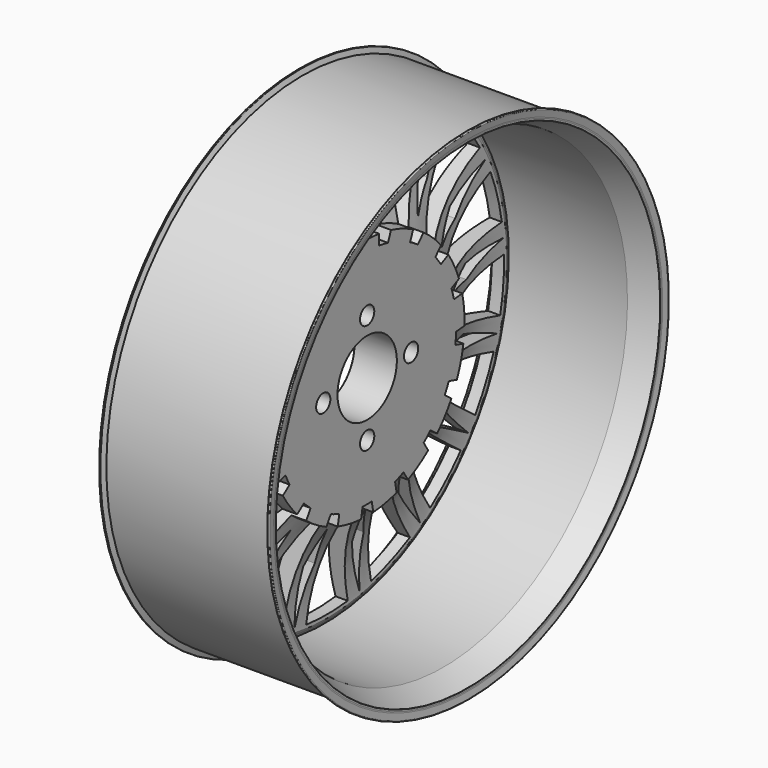
from build123d import *

# Parameters (mm, degrees)
F3_DEPTH = 200
F4_DEPTH = 200
F5_DEPTH = 25
F6_DEPTH = 25
F7_R     = 6
F8_DEPTH = 200


with BuildPart() as f1:
    # F0 (on Front) → F1 (revolve)
    with BuildSketch(Plane.XZ):
        with BuildLine():
            Line((55, 165.1), (0, 165.1))
            Line((0, 165.1), (-55, 165.1))
            Line((-55, 165.1), (-56.1683014739, 168.549018692))
            ThreePointArc((-56.1683014739, 168.549018692), (-56.2535917289, 168.6556027056), (-56.3873958231, 168.6826405296))
            Line((-56.3873958231, 168.6826405296), (-56.9232540892, 168.6022651977))
            ThreePointArc((-56.9232540892, 168.6022651977), (-57.2511731604, 168.4049945914), (-57.343555576, 168.033629409))
            Line((-57.343555576, 168.033629409), (-56.7203909869, 163.879022662))
            ThreePointArc((-56.7203909869, 163.879022662), (-56.6789249456, 163.5092167955), (-56.6650773645, 163.1373511531))
            Line((-56.6650773645, 163.1373511531), (-56.6650773645, 162.1373511531))
            ThreePointArc((-56.6650773645, 162.1373511531), (-56.5974023504, 161.8861637598), (-56.4126969383, 161.702972808))
            Line((-56.4126969383, 161.702972808), (-52.0689134875, 159.22677707))
            ThreePointArc((-52.0689134875, 159.22677707), (-50.2218593663, 157.3948675522), (-49.5451092255, 154.8829936193))
            Line((-49.5451092255, 154.8829936193), (-49.5451092255, 153.8829936193))
            ThreePointArc((-49.5451092255, 153.8829936193), (-49.4470743659, 153.2645046502), (-49.1625806206, 152.7066491604))
            Line((-49.1625806206, 152.7066491604), (-46.6588767889, 149.2640611505))
            ThreePointArc((-46.6588767889, 149.2640611505), (-45.4801445178, 111.0888432605), (-32.9768624351, 75))
            Line((-32.9768624351, 75), (-29.9768624351, 75))
            Line((-29.9768624351, 75), (-29.9768624351, 53.692658539))
            ThreePointArc((-29.9768624351, 53.692658539), (-29.1386520813, 51.4466550453), (-31.0577105917, 50.0098729726))
            Line((-31.0577105917, 50.0098729726), (-39.8, 50.0098729726))
            ThreePointArc((-39.8, 50.0098729726), (-39.9414213562, 49.9512943289), (-40, 49.8098729726))
            Line((-40, 49.8098729726), (-40, 25.2))
            ThreePointArc((-40, 25.2), (-39.9414213562, 25.0585786438), (-39.8, 25))
            Line((-39.8, 25), (-35, 25))
            Line((-35, 25), (-11.3425483368, 25))
            Line((-11.3425483368, 25), (-11.3425483368, 82.0147073211))
            Line((-11.3425483368, 82.0147073211), (-21.3425483368, 82.0147073211))
            ThreePointArc((-21.3425483368, 82.0147073211), (-34.9638665985, 115.4755585241), (-38.3855651878, 151.4402753057))
            Line((-38.3855651878, 151.4402753057), (-39.1945777403, 153.2693457498))
            Line((-39.1945777403, 153.2693457498), (-40, 155.1))
            Line((-40, 155.1), (0, 155.1))
            Line((0, 155.1), (40, 155.1))
            Line((40, 155.1), (56.5974023504, 161.8861637598))
            ThreePointArc((56.5974023504, 161.8861637598), (56.6478622508, 162.0072790442), (56.6650773645, 162.1373511531))
            Line((56.6650773645, 162.1373511531), (56.6650773645, 163.1373511531))
            ThreePointArc((56.6650773645, 163.1373511531), (56.6789249456, 163.5092167955), (56.7203909869, 163.879022662))
            Line((56.7203909869, 163.879022662), (57.343555576, 168.033629409))
            ThreePointArc((57.343555576, 168.033629409), (57.2511731604, 168.4049945914), (56.9232540892, 168.6022651977))
            Line((56.9232540892, 168.6022651977), (56.3873958231, 168.6826405296))
            ThreePointArc((56.3873958231, 168.6826405296), (56.2535917289, 168.6556027056), (56.1683014739, 168.549018692))
            Line((56.1683014739, 168.549018692), (55, 165.1))
        make_face()
    revolve(axis=Axis((-17.5, 0, 0), (-1, 0, 0)))

    # F2 (on face) → F3 (cut)
    with BuildSketch(Plane(origin=(-40, 0, 0), x_dir=(0, -1, 0), z_dir=(-1, 0, 0))):
        with BuildLine():
            ThreePointArc((-62.080411589, 42.083518115), (-59.851292046, 45.1975977284), (-57.4661179383, 48.193830405))
            Line((-57.4661179383, 48.193830405), (-107.7227107047, 103.3226865193))
            ThreePointArc((-107.7227107047, 103.3226865193), (-119.1152922119, 89.9516932159), (-128.8581285259, 75.3348701727))
            Line((-128.8581285259, 75.3348701727), (-62.080411589, 42.083518115))
        make_face()
        with BuildLine():
            ThreePointArc((-42.6859395939, 61.6677432779), (-39.4824122158, 63.7662851797), (-36.1759395137, 65.6985646746))
            Line((-36.1759395137, 65.6985646746), (-63.1239767751, 135.2594673479))
            ThreePointArc((-63.1239767751, 135.2594673479), (-78.5774025513, 126.9068625387), (-92.9425323603, 116.7965993923))
            Line((-92.9425323603, 116.7965993923), (-42.6859395939, 61.6677432779))
        make_face()
        with BuildLine():
            ThreePointArc((-17.5264949256, 72.9233979983), (-13.7812138362, 73.7229824763), (-10, 74.3303437366))
            Line((-10, 74.3303437366), (-10, 148.9287076125))
            ThreePointArc((-10, 148.9287076125), (-27.4271992637, 146.7225568605), (-44.474532187, 142.4843006716))
            Line((-44.474532187, 142.4843006716), (-17.5264949256, 72.9233979983))
        make_face()
        with BuildLine():
            Line((10, 148.9287076125), (10, 74.3303437366))
            ThreePointArc((10, 74.3303437366), (13.7812138362, 73.7229824763), (17.5264949256, 72.9233979983))
            Line((17.5264949256, 72.9233979983), (44.474532187, 142.4843006716))
            ThreePointArc((44.474532187, 142.4843006716), (27.4271992637, 146.7225568605), (10, 148.9287076125))
        make_face()
        with BuildLine():
            Line((63.1239767751, 135.2594673479), (36.1759395137, 65.6985646746))
            ThreePointArc((36.1759395137, 65.6985646746), (39.4824122158, 63.7662851797), (42.6859395939, 61.6677432779))
            Line((42.6859395939, 61.6677432779), (92.9425323603, 116.7965993923))
            ThreePointArc((92.9425323603, 116.7965993923), (78.5774025513, 126.9068625387), (63.1239767751, 135.2594673479))
        make_face()
        with BuildLine():
            Line((107.7227107047, 103.3226865193), (57.4661179383, 48.193830405))
            ThreePointArc((57.4661179383, 48.193830405), (59.851292046, 45.1975977284), (62.080411589, 42.083518115))
            Line((62.080411589, 42.083518115), (128.8581285259, 75.3348701727))
            ThreePointArc((128.8581285259, 75.3348701727), (119.1152922119, 89.9516932159), (107.7227107047, 103.3226865193))
        make_face()
        with BuildLine():
            ThreePointArc((-73.0905799996, 16.8156806379), (-72.136923238, 20.5247242554), (-70.9951787046, 24.1802522879))
            Line((-70.9951787046, 24.1802522879), (-137.7728956415, 57.4316043456))
            ThreePointArc((-137.7728956415, 57.4316043456), (-143.5660016187, 40.8480492847), (-147.3707204066, 23.6987492913))
            Line((-147.3707204066, 23.6987492913), (-73.0905799996, 16.8156806379))
        make_face()
        with BuildLine():
            ThreePointArc((-74.2294605724, -10.7232076883), (-74.6800632221, -6.9201269597), (-74.9359471889, -3.099002888))
            Line((-74.9359471889, -3.099002888), (-149.2160875959, 3.7840657654))
            ThreePointArc((-149.2160875959, 3.7840657654), (-148.6273269801, -13.7723500492), (-145.980079887, -31.1380190011))
            Line((-145.980079887, -31.1380190011), (-74.2294605724, -10.7232076883))
        make_face()
        with BuildLine():
            ThreePointArc((-65.3432411753, -36.8138673968), (-67.1372468516, -33.4303766832), (-68.756200771, -29.9597205518))
            Line((-68.756200771, -29.9597205518), (-140.5068200856, -50.3745318645))
            ThreePointArc((-140.5068200856, -50.3745318645), (-133.6157082605, -66.5327171937), (-124.8740206752, -81.7694252857))
            Line((-124.8740206752, -81.7694252857), (-65.3432411753, -36.8138673968))
        make_face()
        with BuildLine():
            ThreePointArc((-47.632054978, -57.9326103207), (-50.5271732735, -55.4256687915), (-53.2905484477, -52.7742119424))
            Line((-53.2905484477, -52.7742119424), (-112.8213279476, -97.7297698313))
            ThreePointArc((-112.8213279476, -97.7297698313), (-100.5585477501, -110.3074722108), (-86.9030330203, -121.3574175855))
            Line((-86.9030330203, -121.3574175855), (-47.632054978, -57.9326103207))
        make_face()
        with BuildLine():
            ThreePointArc((-23.4878958176, -71.2272332052), (-27.093124964, -69.9354172053), (-30.6277122634, -68.4612535783))
            Line((-30.6277122634, -68.4612535783), (-69.8986903057, -131.886060843))
            ThreePointArc((-69.8986903057, -131.886060843), (-53.9203981519, -139.1845918709), (-37.1953092097, -144.5554181756))
            Line((-37.1953092097, -144.5554181756), (-23.4878958176, -71.2272332052))
        make_face()
        with BuildLine():
            Line((17.535847216, -148.230408532), (3.8284338239, -74.9022235615))
            ThreePointArc((3.8284338239, -74.9022235615), (0, -75), (-3.8284338239, -74.9022235615))
            Line((-3.8284338239, -74.9022235615), (-17.535847216, -148.230408532))
            ThreePointArc((-17.535847216, -148.230408532), (0, -149.2640611505), (17.535847216, -148.230408532))
        make_face()
        with BuildLine():
            Line((69.8986903057, -131.886060843), (30.6277122634, -68.4612535783))
            ThreePointArc((30.6277122634, -68.4612535783), (27.093124964, -69.9354172053), (23.4878958176, -71.2272332052))
            Line((23.4878958176, -71.2272332052), (37.1953092097, -144.5554181756))
            ThreePointArc((37.1953092097, -144.5554181756), (53.9203981519, -139.1845918709), (69.8986903057, -131.886060843))
        make_face()
        with BuildLine():
            Line((112.8213279476, -97.7297698313), (53.2905484477, -52.7742119424))
            ThreePointArc((53.2905484477, -52.7742119424), (50.5271732735, -55.4256687915), (47.632054978, -57.9326103207))
            Line((47.632054978, -57.9326103207), (86.9030330203, -121.3574175855))
            ThreePointArc((86.9030330203, -121.3574175855), (100.5585477501, -110.3074722108), (112.8213279476, -97.7297698313))
        make_face()
        with BuildLine():
            Line((140.5068200856, -50.3745318645), (68.756200771, -29.9597205518))
            ThreePointArc((68.756200771, -29.9597205518), (67.1372468516, -33.4303766832), (65.3432411753, -36.8138673968))
            Line((65.3432411753, -36.8138673968), (124.8740206752, -81.7694252857))
            ThreePointArc((124.8740206752, -81.7694252857), (133.6157082605, -66.5327171937), (140.5068200856, -50.3745318645))
        make_face()
        with BuildLine():
            Line((149.2160875959, 3.7840657654), (74.9359471889, -3.099002888))
            ThreePointArc((74.9359471889, -3.099002888), (74.6800632221, -6.9201269597), (74.2294605724, -10.7232076883))
            Line((74.2294605724, -10.7232076883), (145.980079887, -31.1380190011))
            ThreePointArc((145.980079887, -31.1380190011), (148.4407954744, -15.6553565933), (149.2640611505, 0))
            ThreePointArc((149.2640611505, 0), (149.25206728, 1.8921849262), (149.2160875959, 3.7840657654))
        make_face()
        with BuildLine():
            Line((137.7728956415, 57.4316043456), (70.9951787046, 24.1802522879))
            ThreePointArc((70.9951787046, 24.1802522879), (72.136923238, 20.5247242554), (73.0905799996, 16.8156806379))
            Line((73.0905799996, 16.8156806379), (147.3707204066, 23.6987492913))
            ThreePointArc((147.3707204066, 23.6987492913), (143.5660016187, 40.8480492847), (137.7728956415, 57.4316043456))
        make_face()
    extrude(amount=-F3_DEPTH, mode=Mode.SUBTRACT)

    # F2 (on face) → F4 (cut)
    with BuildSketch(Plane(origin=(-40, 0, 0), x_dir=(0, -1, 0), z_dir=(-1, 0, 0))):
        Polygon((-35.8004958955, 106.2528822507), (-53.9203981519, 139.1845918709), (-45.1252181895, 102.6404655889), (-32.2458981806, 83.2362581067), align=None)
        Polygon((5, 112.0104927806), (0, 149.2640611505), (-5, 112.0104927806), (0, 89.2640611505), align=None)
        Polygon((-71.7659364429, 86.1452312054), (-100.5585477501, 110.3074722108), (-79.1560256151, 79.4082747689), (-60.1368091313, 65.9669371775), align=None)
        Polygon((-98.0389896049, 54.4031893385), (-133.6157082605, 66.5327171937), (-102.4963731627, 45.451556425), (-79.9059107792, 39.7884158472), align=None)
        Polygon((-111.071333968, 15.313695293), (-148.6273269801, 13.7723500492), (-111.9940175626, 5.3563535301), (-88.8832764024, 8.2362484814), align=None)
        Polygon((-109.1028792112, -25.8439981579), (-143.5660016187, -40.8480492847), (-106.3662493104, -35.4622545896), (-85.8564630283, -24.4282698804), align=None)
        Polygon((-92.399476057, -63.5113164511), (-119.1152922119, -89.9516932159), (-86.3731296932, -71.4914887239), (-71.2342585751, -53.7936150332), align=None)
        Polygon((-63.2170116581, -92.6010795292), (-78.5774025513, -126.9068625387), (-54.7148403008, -97.865401158), (-46.9914727787, -75.893834395), align=None)
        Polygon((-25.4967395372, -109.1845536966), (-27.4271992637, -146.7225568605), (-15.6670085404, -111.0220488747), (-16.4022281948, -87.7441708795), align=None)
        Polygon((15.6670085404, -111.0220488747), (27.4271992637, -146.7225568605), (25.4967395372, -109.1845536966), (16.4022281948, -87.7441708795), align=None)
        Polygon((54.7148403008, -97.865401158), (78.5774025513, -126.9068625387), (63.2170116581, -92.6010795292), (46.9914727787, -75.893834395), align=None)
        Polygon((86.3731296932, -71.4914887239), (119.1152922119, -89.9516932159), (92.399476057, -63.5113164511), (71.2342585751, -53.7936150332), align=None)
        Polygon((106.3662493104, -35.4622545896), (143.5660016187, -40.8480492847), (109.1028792112, -25.8439981579), (85.8564630283, -24.4282698804), align=None)
        Polygon((111.9940175626, 5.3563535301), (148.6273269801, 13.7723500492), (111.071333968, 15.313695293), (88.8832764024, 8.2362484814), align=None)
        Polygon((45.1252181895, 102.6404655889), (53.9203981519, 139.1845918709), (35.8004958955, 106.2528822507), (32.2458981806, 83.2362581067), align=None)
        Polygon((79.1560256151, 79.4082747689), (100.5585477501, 110.3074722108), (71.7659364429, 86.1452312054), (60.1368091313, 65.9669371775), align=None)
        Polygon((102.4963731627, 45.451556425), (133.6157082605, 66.5327171937), (98.0389896049, 54.4031893385), (79.9059107792, 39.7884158472), align=None)
    extrude(amount=-F4_DEPTH, mode=Mode.SUBTRACT)

    # F5 (cut): faces of the model
    f5_faces = [f1.faces().sort_by_distance(p)[0] for p in [
        (-40, 65.3630097434, 105.5648853652),
        (-40, 99.0836264961, 74.8244814566),
        (-40, 119.4224504493, 33.9786167105),
        (-40, 123.6326107266, -11.4562485043),
        (-40, 111.1455018534, -55.3438838774),
        (-40, 83.6475770763, -91.7570210618),
        (-40, 44.8525835079, -115.7778641085),
        (-40, 0, -124.1622650602),
        (-40, -44.8525835079, -115.7778641085),
        (-40, -83.6475770763, -91.7570210618),
        (-40, -111.1455018534, -55.3438838774),
        (-40, -123.6326107266, -11.4562485043),
        (-40, -119.4224504493, 33.9786167105),
        (-40, -99.0836264961, 74.8244814566),
        (-40, -65.3630097434, 105.5648853652),
        (-40, -22.8147563358, 122.04816655),
        (-40, 22.8147563358, 122.04816655),
    ]]
    extrude(f5_faces, amount=-F5_DEPTH, mode=Mode.SUBTRACT)

    # F6 (cut): faces of the model
    f6_faces = [f1.faces().sort_by_distance(p)[0] for p in [
        (-40, 42.2282352717, 109.003640425),
        (-40, 78.7533133752, 86.3882695306),
        (-40, 104.6423201202, 52.1056841422),
        (-40, 0, 116.89746567),
        (-40, -42.2282352717, 109.003640425),
        (-40, -78.7533133752, 86.3882695306),
        (-40, -104.6423201202, 52.1056841422),
        (-40, -116.3988016899, 10.7859373828),
        (-40, -112.4349801033, -31.9905099871),
        (-40, -93.2861914301, -70.4464617177),
        (-40, -61.5385856875, -99.388228436),
        (-40, 116.3988016899, 10.7859373828),
        (-40, 112.4349801033, -31.9905099871),
        (-40, 93.2861914301, -70.4464617177),
        (-40, 61.5385856875, -99.388228436),
        (-40, 21.4798529508, -114.9070641748),
        (-40, -21.4798529508, -114.9070641748),
    ]]
    extrude(f6_faces, amount=-F6_DEPTH, mode=Mode.SUBTRACT)

    # F7 (on face) → F8 (cut)
    with BuildSketch(Plane(origin=(-40, 0, 0), x_dir=(0, -1, 0), z_dir=(-1, 0, 0))):
        with Locations((-37, 0)):
            Circle(F7_R)
        with Locations((0, 37)):
            Circle(F7_R)
        with Locations((37, 0)):
            Circle(F7_R)
        with Locations((0, -37)):
            Circle(F7_R)
    extrude(amount=-F8_DEPTH, mode=Mode.SUBTRACT)


with BuildPart() as f1b:
    # F0 (on Front) → F1, piece 2 (revolve)
    with BuildSketch(Plane.XZ):
        with BuildLine():
            Line((-29.9768624351, 51.4469731573), (-29.9768624351, 53.692658539))
            ThreePointArc((-29.9768624351, 53.692658539), (-32.2562363428, 53.6109775988), (-32.9768624351, 51.4469731573))
            Line((-32.9768624351, 51.4469731573), (-29.9768624351, 51.4469731573))
        make_face()
    revolve(axis=Axis((-17.5, 0, 0), (-1, 0, 0)))


solid = Compound([f1.part, f1b.part])
